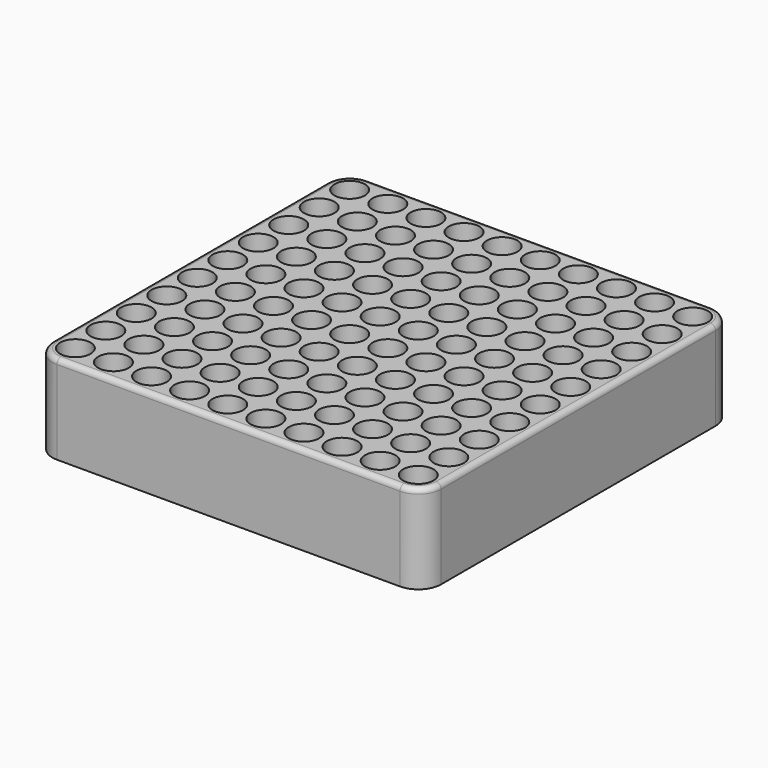
from build123d import *

# Parameters (mm, degrees)
F0_W     = 153
F0_H     = 153
F1_DEPTH = 35
F3_D     = 12
F4_R     = 9
F5_R     = 2
F7_DEPTH = 3


with BuildPart() as f1:
    # F0 (on Top) → F1 (new body)
    with BuildSketch(Plane.XY):
        with Locations((76.5, 76.5)):
            Rectangle(F0_W, F0_H)
    extrude(amount=F1_DEPTH)

    # F3 (through all)
    with Locations(Plane.XY.offset(35)):
        with Locations((9, 144), (9, 129), (9, 114), (9, 99), (9, 84), (9, 69), (9, 54), (9, 39), (9, 24), (9, 9), (24, 9), (24, 24), (24, 39), (24, 54), (24, 69), (24, 84), (24, 99), (24, 114), (24, 129), (24, 144), (39, 144), (54, 144), (69, 144), (84, 144), (99, 144), (114, 144), (129, 144), (144, 144), (144, 129), (129, 129), (114, 129), (99, 129), (84, 129), (69, 129), (54, 129), (39, 129), (39, 114), (39, 99), (39, 84), (39, 69), (39, 54), (39, 39), (39, 24), (39, 9), (54, 9), (54, 24), (54, 39), (54, 54), (54, 69), (54, 84), (54, 99), (54, 114), (69, 114), (69, 99), (69, 84), (69, 69), (69, 54), (69, 39), (69, 24), (69, 9), (84, 9), (84, 24), (84, 39), (84, 54), (84, 69), (84, 84), (84, 99), (84, 114), (99, 114), (99, 99), (99, 84), (99, 69), (99, 54), (99, 39), (99, 24), (99, 9), (114, 9), (129, 9), (144, 9), (144, 24), (129, 24), (114, 24), (114, 39), (129, 39), (144, 39), (144, 54), (129, 54), (114, 54), (114, 69), (129, 69), (144, 69), (144, 84), (129, 84), (114, 84), (114, 99), (114, 114), (129, 114), (129, 99), (144, 99), (144, 114)):
            Hole(F3_D / 2)

    # F4
    f4_edges = [f1.edges().sort_by_distance(p)[0] for p in [
        (0, 153, 17.5),
        (0, 0, 17.5),
        (153, 0, 17.5),
        (153, 153, 17.5),
    ]]
    fillet(f4_edges, radius=F4_R)

    # F5
    f5_edges = [f1.edges().sort_by_distance(p)[0] for p in [
        (76.5, 0, 35),
        (150.363961, 2.636039, 35),
        (153, 76.5, 35),
    ]]
    fillet(f5_edges, radius=F5_R)

    # F6 (on face) → F7 (join)
    with BuildSketch(Plane(origin=(0, 0, 0), x_dir=(1, 0, 0), z_dir=(0, 0, -1))):
        with BuildLine():
            Line((144, 0), (9, 0))
            ThreePointArc((9, 0), (2.6360389693, -2.6360389693), (0, -9))
            Line((0, -9), (0, -144))
            ThreePointArc((0, -144), (2.6360389693, -150.3639610307), (9, -153))
            Line((9, -153), (144, -153))
            ThreePointArc((144, -153), (150.3639610307, -150.3639610307), (153, -144))
            Line((153, -144), (153, -9))
            ThreePointArc((153, -9), (150.3639610307, -2.6360389693), (144, 0))
        make_face()
    extrude(amount=-F7_DEPTH)


solid = f1.part
